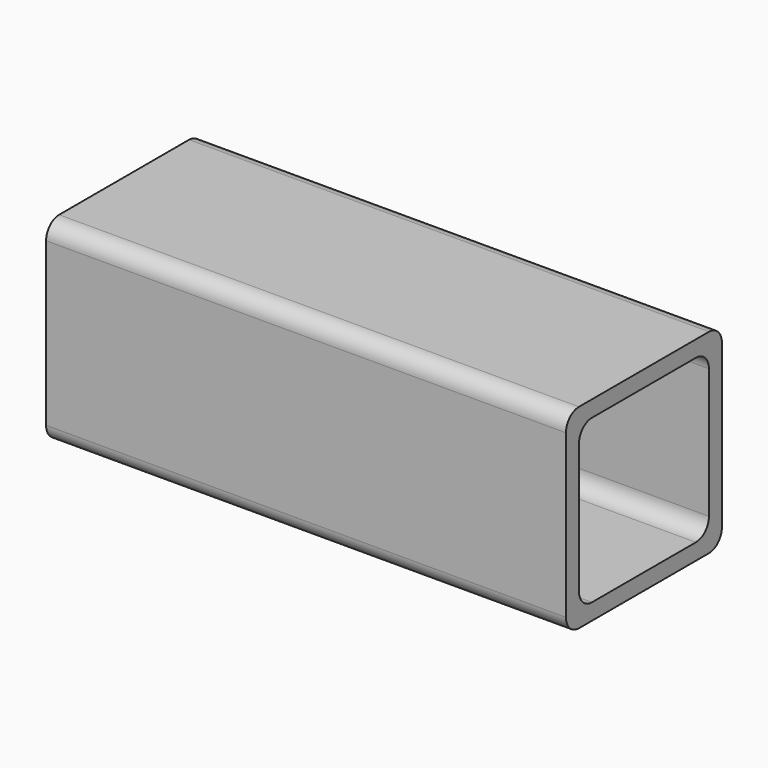
from build123d import *

# Parameters (mm, degrees)
F1_DEPTH = 101.6


with BuildPart() as f1:
    # F0 (on Right) → F1 (new body)
    with BuildSketch(Plane.YZ):
        with BuildLine():
            ThreePointArc((19.05, 15.875), (18.120064, 18.120064), (15.875, 19.05))
            Line((15.875, 19.05), (-15.875, 19.05))
            ThreePointArc((-15.875, 19.05), (-18.120064, 18.120064), (-19.05, 15.875))
            Line((-19.05, 15.875), (-19.05, -15.875))
            ThreePointArc((-19.05, -15.875), (-18.120064, -18.120064), (-15.875, -19.05))
            Line((-15.875, -19.05), (15.875, -19.05))
            ThreePointArc((15.875, -19.05), (18.120064, -18.120064), (19.05, -15.875))
            Line((19.05, -15.875), (19.05, 15.875))
        make_face()
        with BuildLine():
            Line((-12.7, 15.875), (12.7, 15.875))
            ThreePointArc((12.7, 15.875), (14.945064, 14.945064), (15.875, 12.7))
            Line((15.875, 12.7), (15.875, -12.7))
            ThreePointArc((15.875, -12.7), (14.945064, -14.945064), (12.7, -15.875))
            Line((12.7, -15.875), (-12.7, -15.875))
            ThreePointArc((-12.7, -15.875), (-14.945064, -14.945064), (-15.875, -12.7))
            Line((-15.875, -12.7), (-15.875, 12.7))
            ThreePointArc((-15.875, 12.7), (-14.945064, 14.945064), (-12.7, 15.875))
        make_face(mode=Mode.SUBTRACT)
    extrude(amount=F1_DEPTH)


solid = f1.part
